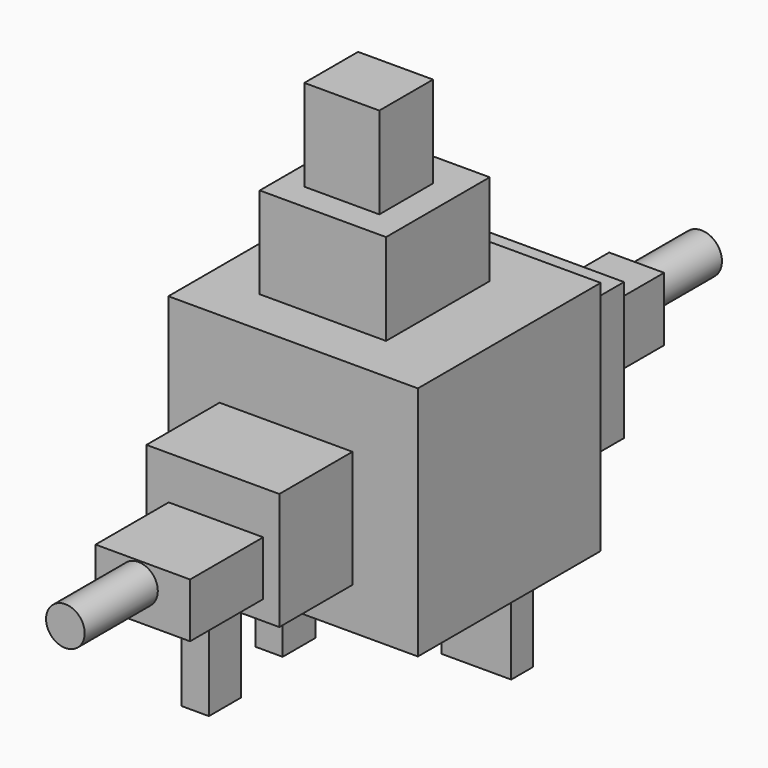
from build123d import *

# Parameters (mm, degrees)
F0_W      = 69.3235993385
F0_H      = 65.5840709805
F1_DEPTH  = 63.5
F2_W      = 35.0951533765
F2_H      = 36.0083952546
F3_DEPTH  = 25.4
F4_W      = 20.8325367421
F4_H      = 18.6669826508
F5_DEPTH  = 25.4
F6_W      = 36.92862764
F6_H      = 32.5597869232
F7_DEPTH  = 25.4
F8_W      = 26.2603592128
F8_H      = 15.1235517114
F9_DEPTH  = 25.4
F10_R     = 5.3684769187
F11_DEPTH = 25.4
F12_W     = 36.9260255247
F12_H     = 38.1826851517
F13_DEPTH = 25.4
F14_W     = 15.2680147439
F14_H     = 17.734348774
F15_DEPTH = 25.4
F16_R     = 5.7192669118
F17_DEPTH = 25.4
F18_W     = 11.3583598286
F18_H     = 38.7682840228
F19_DEPTH = 7.62
F20_W     = 11.1404322088
F20_H     = 42.8567491472
F21_DEPTH = 7.62
F22_W     = 19.3107295781
F22_H     = 39.5472832024
F23_DEPTH = 7.62


with BuildPart() as f1:
    # F0 (on Front) → F1 (new body)
    with BuildSketch(Plane.XZ):
        with Locations((-34.6617996693, 32.7920354903)):
            Rectangle(F0_W, F0_H)
    extrude(amount=F1_DEPTH)

    # F2 (on face) → F3 (join)
    with BuildSketch(Plane.XY.offset(65.5840709805)):
        with Locations((-36.8673438206, -32.3964692652)):
            Rectangle(F2_W, F2_H)
    extrude(amount=F3_DEPTH)

    # F4 (on face) → F5 (join)
    with BuildSketch(Plane.XY.offset(90.9840709805)):
        with Locations((-37.5416250899, -33.6531102657)):
            Rectangle(F4_W, F4_H)
    extrude(amount=F5_DEPTH)

    # F6 (on face) → F7 (join)
    with BuildSketch(Plane.XZ.offset(63.5)):
        with Locations((-36.6367865354, 27.891756501)):
            Rectangle(F6_W, F6_H)
    extrude(amount=F7_DEPTH)

    # F8 (on face) → F9 (join)
    with BuildSketch(Plane.XZ.offset(88.9)):
        with Locations((-35.7861341909, 24.5613688603)):
            Rectangle(F8_W, F8_H)
    extrude(amount=F9_DEPTH)

    # F10 (on face) → F11 (join)
    with BuildSketch(Plane.XZ.offset(114.3)):
        with Locations((-36.9870662689, 26.3831857592)):
            Circle(F10_R)
    extrude(amount=F11_DEPTH)

    # F12 (on face) → F13 (join)
    with BuildSketch(Plane(origin=(0, 0, 0), x_dir=(-1, 0, 0), z_dir=(0, 1, 0))):
        with Locations((32.3077207431, 31.8722119555)):
            Rectangle(F12_W, F12_H)
    extrude(amount=F13_DEPTH)

    # F14 (on face) → F15 (join)
    with BuildSketch(Plane(origin=(0, 25.4, 0), x_dir=(-1, 0, 0), z_dir=(0, 1, 0))):
        with Locations((30.6634595618, 31.0434103012)):
            Rectangle(F14_W, F14_H)
    extrude(amount=F15_DEPTH)

    # F16 (on face) → F17 (join)
    with BuildSketch(Plane(origin=(0, 50.8, 0), x_dir=(-1, 0, 0), z_dir=(0, 1, 0))):
        with Locations((32.9846180975, 31.0434103012)):
            Circle(F16_R)
    extrude(amount=F17_DEPTH)


with BuildPart() as f19:
    # F18 (on face) → F19 (new body)
    with BuildSketch(Plane(origin=(-69.3235993385, 0, 0), x_dir=(0, -1, 0), z_dir=(-1, 0, 0))):
        with Locations((18.1166036054, -19.3841420114)):
            Rectangle(F18_W, F18_H)
    extrude(amount=F19_DEPTH)


with BuildPart() as f21:
    # F20 (on face) → F21 (new body)
    with BuildSketch(Plane(origin=(-69.3235993385, 0, 0), x_dir=(0, -1, 0), z_dir=(-1, 0, 0))):
        with Locations((43.854566291, -21.4283745736)):
            Rectangle(F20_W, F20_H)
    extrude(amount=F21_DEPTH)


with BuildPart() as f23:
    # F22 (on face) → F23 (new body)
    with BuildSketch(Plane(origin=(0, 0, 0), x_dir=(-1, 0, 0), z_dir=(0, 1, 0))):
        with Locations((34.5218433067, -19.7736416012)):
            Rectangle(F22_W, F22_H)
    extrude(amount=F23_DEPTH)


solid = Compound([f1.part, f19.part, f21.part, f23.part])
